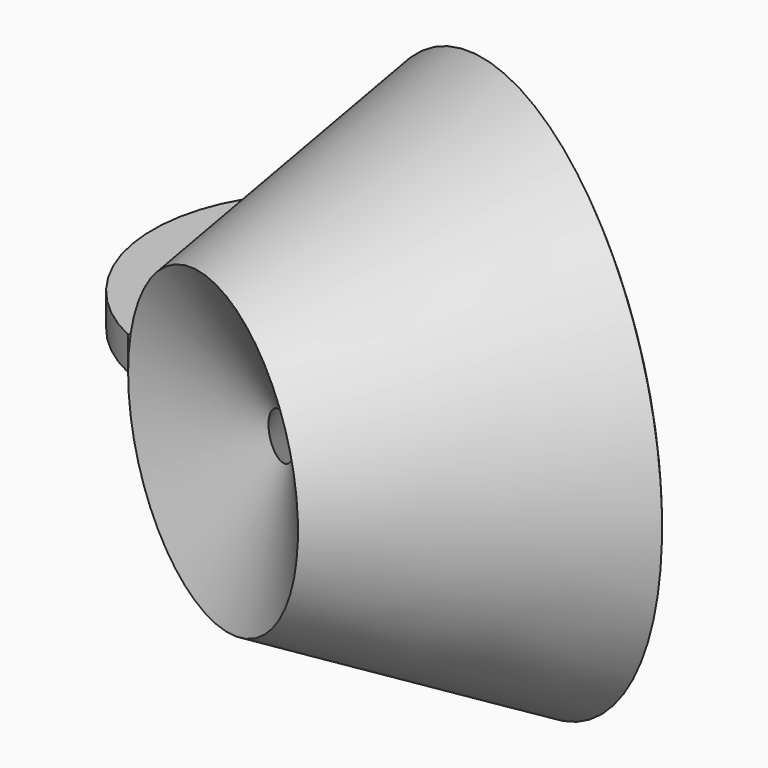
from build123d import *

# Parameters (mm, degrees)
F1_DEPTH = 6.35


with BuildPart() as f1:
    # F0 (on Top) → F1 (new body)
    with BuildSketch(Plane.XY):
        with BuildLine():
            ThreePointArc((-30.01126, 55.844268), (-45.116939, 26.973051), (-26.83626, 0))
            Line((-26.83626, 0), (-26.83626, 54.375544))
            Line((-26.83626, 54.375544), (-30.01126, 54.375544))
            Line((-30.01126, 54.375544), (-30.01126, 55.844268))
        make_face()
        with BuildLine():
            Line((-26.83626, 54.375544), (-26.83626, 57.550544))
            ThreePointArc((-26.83626, 57.550544), (-28.447992, 56.742498), (-30.01126, 55.844268))
            Line((-30.01126, 55.844268), (-30.01126, 54.375544))
            Line((-30.01126, 54.375544), (-26.83626, 54.375544))
        make_face()
        with BuildLine():
            Line((-26.83626, 57.550544), (-25.355733, 54.375544))
            Line((-25.355733, 54.375544), (-23.66126, 54.375544))
            Line((-23.66126, 54.375544), (-23.66126, 60.725544))
            Line((-23.66126, 60.725544), (-30.01126, 60.725544))
            Line((-30.01126, 60.725544), (-30.01126, 55.844268))
            ThreePointArc((-30.01126, 55.844268), (-28.447992, 56.742498), (-26.83626, 57.550544))
        make_face()
    extrude(amount=F1_DEPTH)


with BuildPart() as f2:
    # F0 (on Top) → F2 (revolve)
    with BuildSketch(Plane.XY):
        Polygon((-26.83626, 0), (0, 0), (-25.355733, 54.375544), (-26.83626, 54.375544), align=None)
    revolve(axis=Axis((21.35777, 35.728059, 0), (0.422618, 0.906308, 0)))


solid = Compound([f1.part, f2.part])
